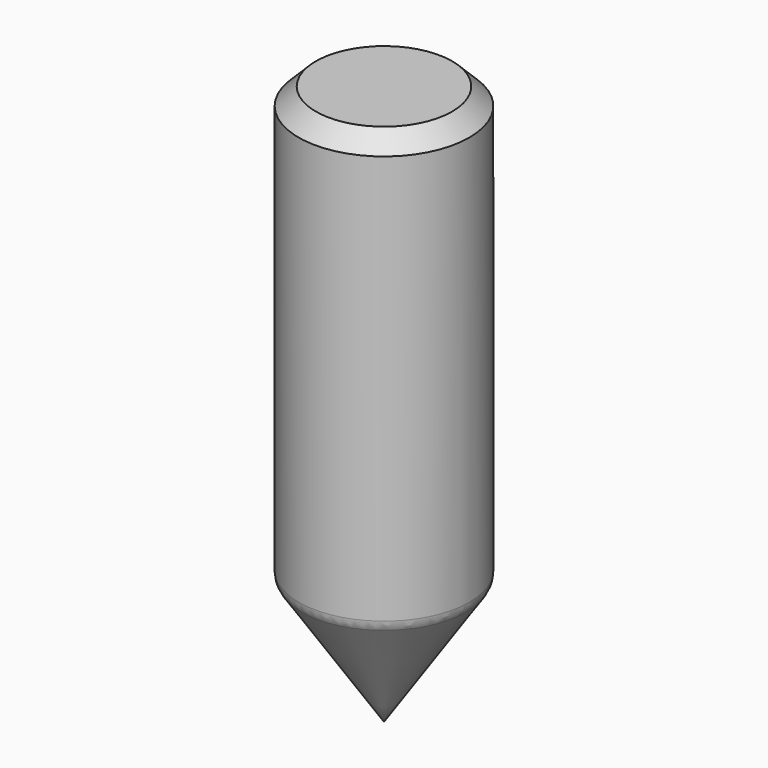
from build123d import *

# Parameters (mm, degrees)
F0_R     = 25.1419011997
F1_DEPTH = 127
F4_R     = 5.08
F5_SIZE  = 5.08


with BuildPart() as f1:
    # F0 (on Top) → F1 (new body)
    with BuildSketch(Plane.XY):
        Circle(F0_R)
    extrude(amount=F1_DEPTH)

    # F0 (on Top) → F3 section 0
    with BuildSketch(Plane.XY, mode=Mode.PRIVATE) as f3_s0:
        Circle(F0_R)
    loft([f3_s0.sketch, Vertex(0, 0, -37.6585572958)])

    # F4
    f4_edges = [f1.edges().sort_by_distance(p)[0] for p in [
        (-25.141901, 0, 0),
    ]]
    fillet(f4_edges, radius=F4_R)

    # F5
    f5_edges = [f1.edges().sort_by_distance(p)[0] for p in [
        (-25.141901, 0, 127),
    ]]
    chamfer(f5_edges, length=F5_SIZE)


solid = f1.part
